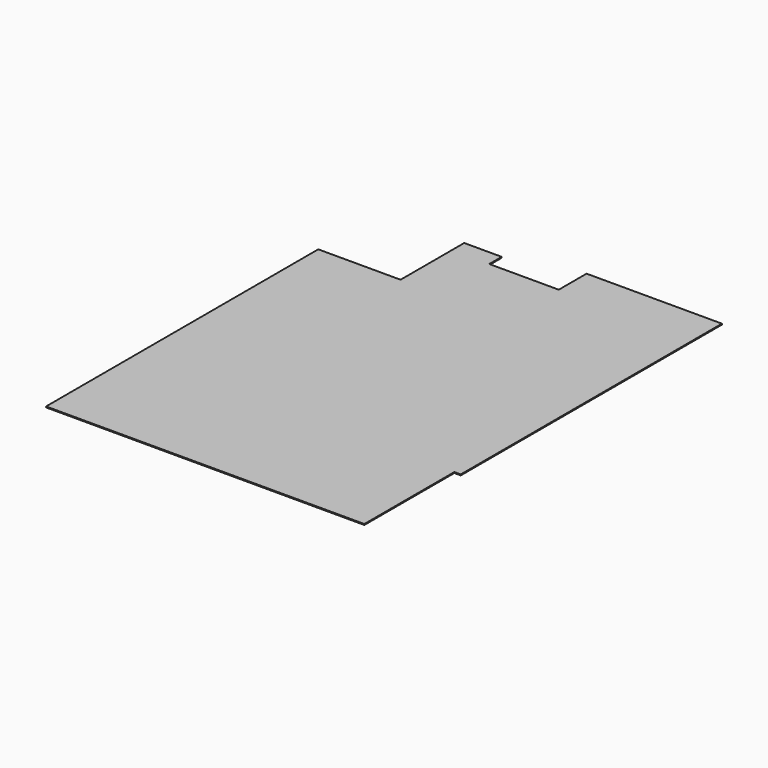
from build123d import *

# Parameters (mm, degrees)
F0_W     = 889
F0_H     = 1651
F0_H_2   = 914.4
F1_DEPTH = 25.4


with BuildPart() as f1:
    # F0 (on Top) → F1 (new body)
    with BuildSketch(Plane.XY):
        Polygon((0, 6604), (0, 0), (4749.8, 0), (8839.2, 0), (8839.2, 3124.2), (7289.8, 3124.2), (7289.8, 4013.2), (9017, 4013.2), (9017, 5638.8), (8356.6, 5638.8), (8356.6, 7747), (6451.6, 7747), (6451.6, 8407.4), (6451.6, 9321.8), (6451.6, 10972.8), (7340.6, 10972.8), (7340.6, 9321.8), (7340.6, 8407.4), (9017, 8407.4), (9017, 10972.8), (9017, 12192), (8077.2, 12192), (5257.8, 12192), (5257.8, 11226.8), (3327.4, 11226.8), (3327.4, 11658.6), (2286, 11658.6), (2286, 9448.8), (0, 9448.8), align=None)
        Polygon((5257.8, 8432.8), (4038.6, 8432.8), (4038.6, 8305.8), (3784.6, 8305.8), (3784.6, 9448.8), (5257.8, 9448.8), align=None, mode=Mode.SUBTRACT)
        Polygon((4038.6, 8305.8), (4038.6, 8432.8), (5257.8, 8432.8), (5257.8, 9448.8), (3784.6, 9448.8), (3784.6, 8305.8), align=None)
        with Locations((6896.1, 10147.3)):
            Rectangle(F0_W, F0_H)
        with Locations((6896.1, 8864.6)):
            Rectangle(F0_W, F0_H_2)
        Polygon((8356.6, 5638.8), (9017, 5638.8), (9017, 8407.4), (7340.6, 8407.4), (6451.6, 8407.4), (6451.6, 7747), (8356.6, 7747), align=None)
        Polygon((7289.8, 3124.2), (8839.2, 3124.2), (9017, 3124.2), (9017, 4013.2), (7289.8, 4013.2), align=None)
    extrude(amount=F1_DEPTH)


solid = f1.part
